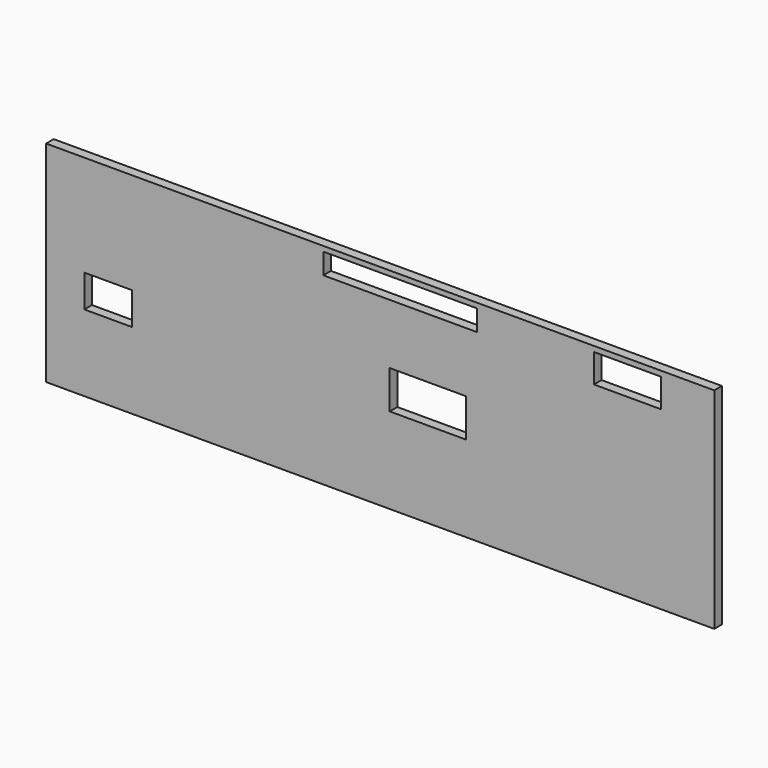
from build123d import *

# Parameters (mm, degrees)
F0_W     = 10668
F0_H     = 3352.8
F0_W_2   = 762
F0_H_2   = 518.16
F0_W_3   = 1219.2
F0_H_3   = 609.6
F0_W_4   = 2450.9781
F0_H_4   = 333.246946
F0_W_5   = 1066.8
F0_H_5   = 457.2
F1_DEPTH = 152.4


with BuildPart() as f1:
    # F0 (on Front) → F1 (new body)
    with BuildSketch(Plane.XZ):
        Rectangle(F0_W, F0_H)
        with Locations((-4343.4, -198.12)):
            Rectangle(F0_W_2, F0_H_2, mode=Mode.SUBTRACT)
        with Locations((762, 0)):
            Rectangle(F0_W_3, F0_H_3, mode=Mode.SUBTRACT)
        with Locations((317.122191, 1429.676175)):
            Rectangle(F0_W_4, F0_H_4, mode=Mode.SUBTRACT)
        with Locations((3946.494521, 1362.653826)):
            Rectangle(F0_W_5, F0_H_5, mode=Mode.SUBTRACT)
    extrude(amount=F1_DEPTH)


solid = f1.part
